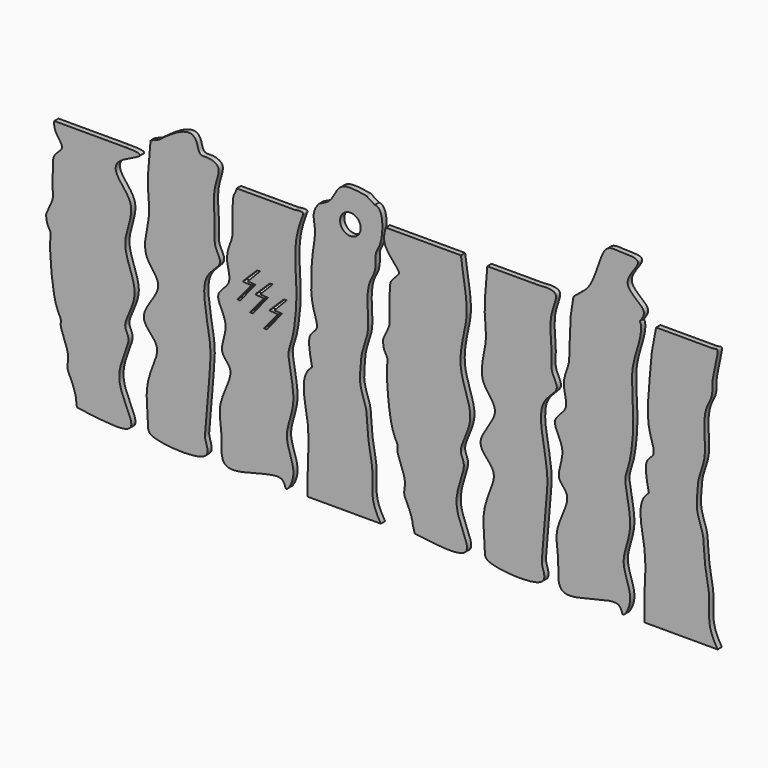
from build123d import *

# Parameters (mm, degrees)
F1_DEPTH = 50
F0_R     = 97.8840426977
F2_SCALE = 0.6488240065


with BuildPart() as f1:
    # F0 (on Front) → F1 (new body)
    with BuildSketch(Plane.XZ):
        with BuildLine():
            Line((131.6326165204, 281.1065614223), (-541.9633388519, 281.1065614223))
            add(Edge.make_bspline(
                [(-541.9633388519, 281.1065614223), (-548.9453550792, 227.9658490348), (-512.5139899877, 160.7421632388), (-469.9296298343, 107.537157167), (-463.3307208981, 65.1562389583), (-552.8232861489, 0.6597752831), (-554.9334240823, -88.2189553565), (-562.1340968986, -306.837695191), (-545.7306471288, -383.4692110388), (-629.1222180053, -521.7357231112), (-614.3189534814, -553.9497117952), (-614.0345772983, -601.8053799768), (-567.2748413888, -665.4117567602), (-593.652193738, -730.7044414138), (-556.4828983641, -1245.8701076483), (-468.3549396679, -1357.8869816984), (-496.1486313863, -1416.0527006946), (-385.5626259843, -1626.8365246937), (-432.9943203203, -1742.5912634111), (-377.2999431267, -1820.5937165438), (-333.7371159528, -1955.9781078662), (-337.0209589397, -1971.1735296488)],
                knots=[0, 0, 0, 0, 0.0562217087, 0.096130833, 0.1250878599, 0.1735841421, 0.2213650523, 0.2937594325, 0.3407017575, 0.4006356156, 0.4287042438, 0.4621755819, 0.5032563849, 0.5448522923, 0.6575120618, 0.7147427196, 0.7500478254, 0.8246015206, 0.8775853412, 0.9274674639, 0.987356408, 0.987356408, 0.987356408, 0.987356408], degree=3))
            Line((-337.0209589397, -1971.1735296488), (-326.8903331719, -2043.5997113816))
            add(Edge.make_bspline(
                [(131.6326165204, 281.1065614223), (413.9827269865, 281.1065614223), (-155.3170364657, 131.2126757667), (309.2164023353, -147.8630010685), (37.312165387, -526.8846775544), (309.8825910763, -903.9676456274), (81.5444862468, -1206.0837572511), (217.0601287115, -1319.5078839631), (-35.2612870691, -1676.1066835661), (358.4406916696, -2146.259287983), (-89.5988102183, -2074.9306517091), (-326.8903331719, -2043.5997113816)],
                knots=[0, 0, 0, 0, 0.0694688117, 0.1823231235, 0.3058616547, 0.4335585187, 0.5434619362, 0.6116942793, 0.7340916736, 0.8565703958, 1, 1, 1, 1], degree=3))
        make_face()
    extrude(amount=F1_DEPTH)


with BuildPart() as f1b:
    # F0 (on Front) → F1, piece 2 (new body)
    with BuildSketch(Plane.XZ):
        with BuildLine():
            Line((451.5926837921, 447.767496109), (371.9439804554, 415.2102768421))
            add(Edge.make_bspline(
                [(371.9439804554, 415.2102768421), (358.1855943631, 270.7134424959), (332.18983328, -2.3058751575), (382.393274911, -217.2093224086), (258.7667391109, -573.1152493507), (551.1215479301, -769.2690186625), (203.8964376447, -1083.4447663746), (460.8283995094, -1250.9417762451), (414.6463107861, -1425.4363069895), (311.5505353738, -1644.1462292731), (353.6145566207, -1966.4091845545), (342.7454710758, -2083.5938657237), (987.0790908463, -2128.079456502), (880.5698888428, -1911.199296959), (897.9831807971, -1833.0424171134), (923.2483547704, -1399.3043036767), (967.4284262865, -1094.4867329311), (807.4614548425, -546.2895033606), (1083.1386968513, -411.6801964724), (965.2213705566, -270.5898133306), (994.8915870349, -103.3294496946), (949.3719221502, 206.8151287461), (1059.5288045642, 409.5930870149), (915.6980491157, 458.7389410494), (785.8557593491, 422.2477095947), (832.8595001339, 744.4830424985), (451.5926837921, 447.767496109)],
                knots=[0, 0, 0, 0, 0.0548149813, 0.0953207203, 0.1441470811, 0.1867548913, 0.2353484589, 0.2748639315, 0.3080808897, 0.3506995608, 0.3982644284, 0.4237274735, 0.4841714371, 0.5146323376, 0.5398891704, 0.593822885, 0.6449136669, 0.7054184598, 0.7445467481, 0.774827569, 0.8097446781, 0.8579075835, 0.8947019885, 0.9228666421, 0.9473424448, 1, 1, 1, 1], degree=3))
        make_face()
    extrude(amount=F1_DEPTH)


with BuildPart() as f1c:
    # F0 (on Front) → F1, piece 3 (new body)
    with BuildSketch(Plane.XZ):
        with BuildLine():
            Line((1746.4283406734, 281.1065614223), (1189.5431280136, 281.1065614223))
            add(Edge.make_bspline(
                [(1189.5431280136, 281.1065614223), (1181.580995234, 240.0794733887), (1139.7022328934, 227.6309209623), (1158.3904946688, -102.7602449929), (1140.6170180665, -169.9882207161), (1068.8632352926, -344.597459686), (1167.0154274958, -542.8213436941), (944.2209723426, -660.31451485), (1146.3335668849, -882.9665621356), (995.2548464834, -1141.7298613373), (1198.5596261326, -1248.5354009928), (986.6967391943, -1574.9427747299), (1068.7372861517, -1807.0256368199), (1000.4008094733, -2219.8125414952), (1652.2453122438, -1908.1897147104), (1644.3263976032, -2136.2416142747), (1782.9089304981, -1910.8513538872), (1604.950755448, -1639.5981718067), (1783.0075689975, -1341.5618378233), (1653.1613027341, -949.7400397279), (1725.589710202, -823.1543956533), (1778.7103182906, -409.4656362513), (1719.4359585209, -22.7125935042), (1805.3205397203, 233.8424116711), (1832.5688601778, 290.8435439505), (1776.0036440456, 288.3960974869), (1746.4283406734, 281.1065614223)],
                knots=[0, 0, 0, 0, 0.0260789645, 0.0752016919, 0.1014987001, 0.1388545145, 0.1782404767, 0.2152992021, 0.2586364715, 0.3032983689, 0.338225763, 0.3890493606, 0.43624629, 0.4814151912, 0.5460785194, 0.5719448113, 0.6072263786, 0.6568497273, 0.7082745579, 0.7635322411, 0.7973035994, 0.854204144, 0.9131363007, 0.9586139618, 0.9757595539, 1, 1, 1, 1], degree=3))
        make_face()
        Polygon((1498.9070892334, -638.194411993), (1636.6310119629, -501.9111931324), (1664.6355390549, -500.2773404121), (1547.0144748688, -622.422337532), (1620.3014850616, -626.9462406635), (1476.4417409897, -805.1874637604), (1449.4125843048, -803.8935065269), (1582.8326940536, -644.650220871), align=None, mode=Mode.SUBTRACT)
        Polygon((1245.986700058, -478.2997071743), (1383.7106227875, -342.0164883137), (1411.7151498795, -340.3826355934), (1294.0940856934, -462.5276327133), (1367.3810958862, -467.0515358448), (1223.5213518143, -645.2927589417), (1196.4921951294, -643.9988017082), (1329.9123048782, -484.7555160522), align=None, mode=Mode.SUBTRACT)
        Polygon((1365.4869347811, -548.0478070676), (1503.2108575106, -411.764588207), (1531.2153846025, -410.1307354867), (1413.5943204165, -532.2757326066), (1486.8813306093, -536.7996357381), (1343.0215865374, -715.040858835), (1315.9924298525, -713.7469016016), (1449.4125396013, -554.5036159456), align=None, mode=Mode.SUBTRACT)
    extrude(amount=F1_DEPTH)


with BuildPart() as f1d:
    # F0 (on Front) → F1, piece 4 (new body)
    with BuildSketch(Plane.XZ):
        with BuildLine():
            add(Edge.make_bspline(
                [(1863.8666570187, -2077.0778000145), (1867.9157104317, -2008.8164438079), (1853.4952166965, -1834.919718628), (1903.2838745142, -1473.6652637302), (1773.1992220794, -1080.3949632744), (1906.4799547195, -981.8070530891)],
                knots=[0, 0, 0, 0, 0.2660131703, 0.6146083891, 1, 1, 1, 1], degree=3))
            Line((1863.8666570187, -2077.0778000145), (2558.4621513825, -2077.0778000145))
            add(Edge.make_bspline(
                [(2558.4621513825, -2077.0778000145), (2522.4719971425, -2017.8170300458), (2461.4604553101, -1893.2018177091), (2490.3151288405, -1652.8904009533), (2445.8958183368, -1492.9609657319), (2426.0920854979, -1268.1023331975), (2424.9231276111, -1149.3780753283), (2349.8004461765, -983.0346627612), (2367.3556098189, -832.5927563133), (2369.3864611976, -710.0289807636), (2439.8395514397, -543.2966988779), (2439.5416400223, -392.8993945241), (2424.6967987843, -209.3035678465), (2452.5143072424, -75.508153779), (2502.194452401, -3.1796875249), (2512.5402934818, 89.6185300898), (2503.3470598869, 187.7227308397), (2578.4722946489, 253.2593581112), (2587.898818441, 569.019973278), (2501.3434888526, 569.019973278)],
                knots=[0, 0, 0, 0, 0.0676840292, 0.1393893111, 0.2016611577, 0.2714065034, 0.3237356087, 0.3861119743, 0.4437862186, 0.4961151331, 0.5584914989, 0.617083815, 0.6813792215, 0.7360146169, 0.779386881, 0.8246903261, 0.8684837241, 0.9189609888, 1, 1, 1, 1], degree=3))
            Line((2501.3434888526, 569.019973278), (2422.3436154851, 618.8324702891))
            add(Edge.make_bspline(
                [(1973.396062851, 407.8062176704), (2009.9932844868, 424.4920594087), (2082.03009235, 457.335939944), (2128.5923572973, 560.4980346086), (2202.8277737139, 654.7381687972), (2340.7460420252, 632.1791966484), (2422.3436154851, 618.8324702891)],
                knots=[0, 0, 0, 0, 0.2341358088, 0.4608654842, 0.6810279828, 1, 1, 1, 1], degree=3))
            add(Edge.make_bspline(
                [(1973.396062851, 407.8062176704), (1895.5992152493, 325.4386402986), (1953.1506345849, 196.4468775114), (1909.1536399458, -2.0164773973), (1895.6059486084, -225.715080926), (1895.1725772805, -462.1721078749), (1984.608453491, -650.9402967505), (1849.739442199, -709.3724430723), (1884.6604197191, -876.9692701055), (1906.4799547195, -981.8070530891)],
                knots=[0, 0, 0, 0, 0.1502211216, 0.2907907106, 0.4429209379, 0.6021918162, 0.7356040213, 0.8353529142, 1, 1, 1, 1], degree=3))
        make_face()
        with Locations((2269.6409225464, 331.5011560917)):
            Circle(F0_R, mode=Mode.SUBTRACT)
    extrude(amount=F1_DEPTH)


with BuildPart() as f1e:
    # F0 (on Front) → F1, piece 5 (new body)
    with BuildSketch(Plane.XZ):
        with BuildLine():
            Line((3318.8828123925, 413.659115951), (2604.5338201362, 413.659115951))
            add(Edge.make_bspline(
                [(2604.5338201362, 413.659115951), (2591.9136656618, 365.2500563793), (2564.1112279459, 253.3554196723), (2734.8015783094, 100.5523014648), (2731.8495204502, 56.286737477), (2645.7792333449, -11.0748255335), (2642.5037378743, -98.9779297069), (2635.7188817401, -317.9447874311), (2652.0354069947, -394.5035307589), (2568.6660151402, -532.7886113416), (2583.4662372723, -565.0000520119), (2583.7513566803, -612.8563461021), (2630.5108560455, -676.4625072961), (2604.1334976914, -741.7552951377), (2641.3036503653, -1256.9207710359), (2729.4296008671, -1368.9379731017), (2701.6409463849, -1427.1028909712), (2812.1937533683, -1637.8919867451), (2764.8633156048, -1753.6306478487), (2820.2142611685, -1831.6923549409), (2864.773989865, -1966.9366883338), (2861.0308397511, -1982.1871147232)],
                knots=[0, 0, 0, 0, 0.0598446369, 0.1286332318, 0.1565420478, 0.2032828208, 0.2493341173, 0.3191079049, 0.364350972, 0.4221152939, 0.4491678702, 0.4814275847, 0.5210213102, 0.5611114939, 0.6696931102, 0.7248520844, 0.7588791863, 0.8307341241, 0.8817999917, 0.9298764393, 0.9876060056, 0.9876060056, 0.9876060056, 0.9876060056], degree=3))
            Line((2861.0308397511, -1982.1871147232), (2879.9800617749, -2054.4415664673))
            add(Edge.make_bspline(
                [(3318.8828123925, 413.659115951), (3340.8480702436, 280.5329910134), (3377.9986179166, 43.6070703687), (3374.7424719565, -150.283228992), (3258.0968989366, -543.2676954426), (3486.8372118811, -912.8136961743), (3272.6094077451, -1216.6881656609), (3395.6737476391, -1333.7026497948), (3182.7503524579, -1687.2382740875), (3529.17189641, -2140.1577821116), (3106.9597307913, -2084.4109744638), (2879.9800617749, -2054.4415664673)],
                knots=[0, 0, 0, 0, 0.1195711995, 0.206178602, 0.3271225108, 0.4522659134, 0.5595742918, 0.627124045, 0.7454837233, 0.8628033413, 1, 1, 1, 1], degree=3))
        make_face()
    extrude(amount=F1_DEPTH)


with BuildPart() as f1f:
    # F0 (on Front) → F1, piece 6 (new body)
    with BuildSketch(Plane.XZ):
        with BuildLine():
            Line((4003.1985087449, 404.1594766783), (3569.7297198827, 404.1594766783))
            add(Edge.make_bspline(
                [(3569.7297198827, 404.1594766783), (3555.2979447466, 252.5904040287), (3530.2017544747, -10.9812114297), (3580.1137108917, -228.9459690959), (3456.5686278429, -583.9964421744), (3748.9025353963, -780.3697260502), (3401.6832516514, -1094.4842809532), (3658.6139249262, -1261.9948236641), (3612.4321203763, -1436.4863715828), (3509.3362503276, -1655.1972796278), (3551.4003016298, -1977.4599490185), (3540.5312019778, -2094.6446894337), (4184.8648838903, -2139.130208229), (4078.355542672, -1922.2501704342), (4095.7693079001, -1844.0928868807), (4121.0307760389, -1410.3579297872), (4165.2264532742, -1105.5270685184), (4005.2002319088, -557.3802984541), (4281.0221622068, -422.6477695334), (4162.7122137632, -281.8917582859), (4194.1921743498, -113.0901480189), (4139.9394281027, 189.6170075485), (4284.3118852411, 428.881395238), (4042.7519545466, 401.5491236225), (4002.2103637411, 403.9782037058), (4003.1985087449, 404.1594766783)],
                knots=[0, 0, 0, 0, 0.0574978402, 0.0999860879, 0.1512022011, 0.1958954036, 0.2468673298, 0.2883168437, 0.3231595693, 0.3678641643, 0.4177570419, 0.4444663477, 0.5078686745, 0.5398204502, 0.5663134508, 0.6228868917, 0.6764782556, 0.7399443888, 0.7809877681, 0.8127506504, 0.8493767389, 0.8998969246, 0.9384921913, 0.9760361497, 0.9920120301, 0.9920120301, 0.9920120301, 0.9920120301], degree=3))
        make_face()
    extrude(amount=F1_DEPTH)


with BuildPart() as f1g:
    # F0 (on Front) → F1, piece 7 (new body)
    with BuildSketch(Plane.XZ):
        with BuildLine():
            add(Edge.make_bspline(
                [(4387.3288674409, 413.659115951), (4421.3917462294, 454.3727499259), (4583.5271254669, 524.3394626854), (4656.7153298043, 957.2184094149), (4814.0237881522, 930.3785620584), (5102.146251739, 944.5997722313), (4788.6683368904, 676.6304958174), (5107.0003025979, 535.6111532257), (5042.1977143587, 448.5727327519), (5016.1924405152, 413.659115951)],
                knots=[0, 0, 0, 0, 0.1456277159, 0.3404692745, 0.459081921, 0.5907528534, 0.7419164807, 0.8940585273, 1, 1, 1, 1], degree=3))
            add(Edge.make_bspline(
                [(4387.3288674409, 413.659115951), (4374.7612311844, 348.9008993597), (4348.5869406944, 201.7546858132), (4354.1988985018, -104.1874325606), (4338.9800080588, -183.8484761232), (4266.4612847575, -354.7347802222), (4364.8489500396, -554.1047029359), (4141.991867394, -671.2930658828), (4344.1237177578, -894.0388423339), (4193.0396910757, -1152.7762725537), (4396.3456841661, -1259.5878657286), (4184.4824390481, -1585.9927504615), (4266.5226560863, -1818.0771799841), (4198.1878966084, -2230.8558123281), (4850.0286360249, -1919.2445024082), (4842.1130172034, -2147.2855038935), (4980.6944992037, -1921.9004282485), (4802.7371889746, -1650.6637192495), (4980.7899125396, -1352.5520074264), (4850.9586441116, -960.9955394632), (4923.3435067632, -833.6418878242), (4976.7173076184, -424.4178542413), (4915.5838463528, -14.4447115516), (5022.2284526414, 234.7650548003), (5038.0674486688, 392.7036234188), (5016.1924405152, 413.659115951)],
                knots=[0, 0, 0, 0, 0.0411637118, 0.0885267549, 0.1138817462, 0.149899393, 0.1878744632, 0.2236056633, 0.2653904962, 0.308452506, 0.3421287238, 0.3911317081, 0.4366379394, 0.4801884337, 0.5425353447, 0.567474514, 0.6014917962, 0.649337527, 0.6989202069, 0.752198438, 0.7847600318, 0.8396222735, 0.8964433504, 0.9425505765, 0.9766279001, 0.9766279001, 0.9766279001, 0.9766279001], degree=3))
        make_face()
    extrude(amount=F1_DEPTH)


with BuildPart() as f1h:
    # F0 (on Front) → F1, piece 8 (new body)
    with BuildSketch(Plane.XZ):
        with BuildLine():
            add(Edge.make_bspline(
                [(5061.6523964459, -2088.1243742299), (5065.7014222933, -2019.8634827409), (5051.2809960758, -1845.971104875), (5101.0697729222, -1484.715445392), (4970.9846326577, -1091.4460066881), (5104.2656941468, -992.8578532529)],
                knots=[0, 0, 0, 0, 0.2660113593, 0.6146074382, 1, 1, 1, 1], degree=3))
            Line((5061.6523964459, -2088.1243742299), (5756.3222689683, -2088.1243742299))
            add(Edge.make_bspline(
                [(5756.3222689683, -2088.1243742299), (5719.5677717655, -2027.6050502635), (5659.5923757683, -1904.8860213556), (5688.0185885155, -1663.7934671685), (5643.7055416605, -1504.0548831942), (5623.8733934424, -1279.1427946463), (5622.7082485673, -1160.4329124122), (5547.5884679401, -994.0835297918), (5565.1413569069, -843.6444000542), (5567.1738642527, -721.0767336947), (5637.6234580774, -554.3660297987), (5637.326195968, -403.8807573226), (5622.486818827, -220.6255033278), (5650.2936511891, -85.7863920717), (5700.0060055821, -16.5105080002), (5710.2112571488, 87.4492703472), (5700.0442659052, 152.4976404058), (5782.9487034352, 455.2398392244), (5738.4437365586, 413.659115951), (5699.5822234208, 413.659115951)],
                knots=[0, 0, 0, 0, 0.0691214727, 0.1423455378, 0.2059360555, 0.2771589104, 0.3305957829, 0.3942934483, 0.453189194, 0.5066260665, 0.5703237319, 0.6301568313, 0.6958141966, 0.7516068118, 0.7958970269, 0.8421601102, 0.8868803554, 0.9636152918, 1, 1, 1, 1], degree=3))
            Line((5699.5822234208, 413.659115951), (5172.3017735536, 413.659115951))
            add(Edge.make_bspline(
                [(5172.3017735536, 413.659115951), (5155.5638298014, 336.2129372479), (5124.727575567, 180.9346730989), (5114.4222919845, -11.1127327724), (5091.1989827733, -237.3431672616), (5093.4517410256, -473.0762544286), (5182.3162493051, -662.0603310943), (5047.5296384907, -720.2540217796), (5082.5685148052, -888.6079607082), (5104.2656941468, -992.8578532529)],
                knots=[0, 0, 0, 0, 0.1549863585, 0.2947676867, 0.4460448256, 0.6044225733, 0.7370866535, 0.8362761925, 1, 1, 1, 1], degree=3))
        make_face()
    extrude(amount=F1_DEPTH)


with BuildPart() as f1h_1:
    # F2: moved
    add(f1h.part.scale(F2_SCALE).moved(Location((46.2262148851, -17.5587996756, 98.7178759902))))


with BuildPart() as f1g_1:
    # F2: moved
    add(f1g.part.scale(F2_SCALE).moved(Location((46.2262148851, -17.5587996756, 98.7178759902))))


with BuildPart() as f1f_1:
    # F2: moved
    add(f1f.part.scale(F2_SCALE).moved(Location((46.2262148851, -17.5587996756, 98.7178759902))))


with BuildPart() as f1e_1:
    # F2: moved
    add(f1e.part.scale(F2_SCALE).moved(Location((46.2262148851, -17.5587996756, 98.7178759902))))


with BuildPart() as f1d_1:
    # F2: moved
    add(f1d.part.scale(F2_SCALE).moved(Location((46.2262148851, -17.5587996756, 98.7178759902))))


with BuildPart() as f1b_1:
    # F2: moved
    add(f1b.part.scale(F2_SCALE).moved(Location((46.2262148851, -17.5587996756, 98.7178759902))))


with BuildPart() as f1c_1:
    # F2: moved
    add(f1c.part.scale(F2_SCALE).moved(Location((46.2262148851, -17.5587996756, 98.7178759902))))


with BuildPart() as f1_1:
    # F2: moved
    add(f1.part.scale(F2_SCALE).moved(Location((46.2262148851, -17.5587996756, 98.7178759902))))


solid = Compound([f1h_1.part, f1g_1.part, f1f_1.part, f1e_1.part, f1d_1.part, f1b_1.part, f1c_1.part, f1_1.part])
